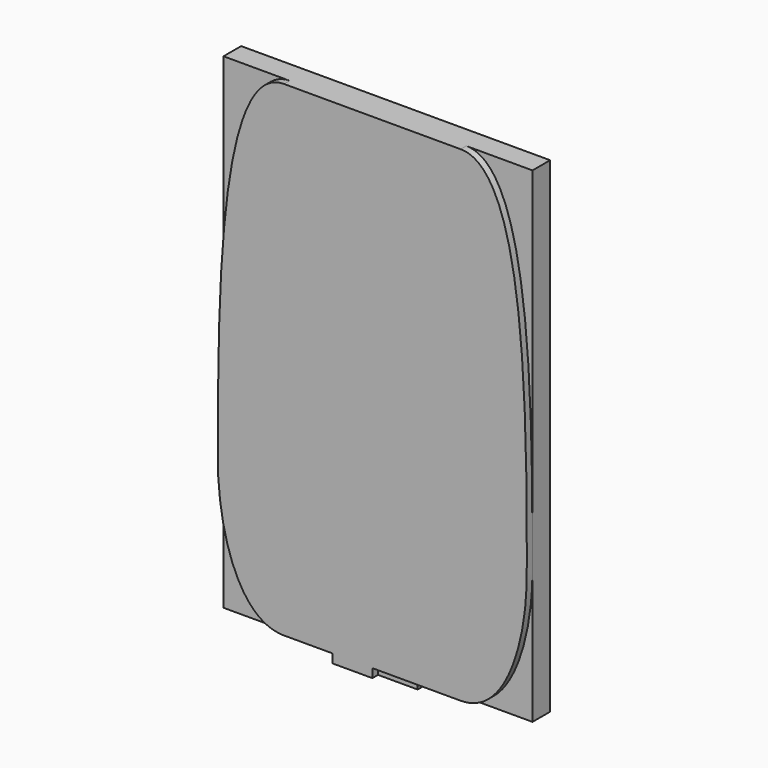
from build123d import *

# Parameters (mm, degrees)
F0_W     = 45
F0_H     = 10
F1_DEPTH = 25
F2_DEPTH = 8


with BuildPart() as f1:
    # F0 (on Front) → F1 (new body)
    with BuildSketch(Plane.XZ):
        with BuildLine():
            add(Edge.make_bspline(
                [(-100, 275), (-175, 275), (-175, 27.932741), (-175, -125)],
                knots=[0, 0, 0, 0, 406.970515, 406.970515, 406.970515, 406.970515], degree=3))
            add(Edge.make_bspline(
                [(-100, -275), (-153.845802, -275), (-175, -188.347161), (-175, -125)],
                knots=[0, 0, 0, 0, 167.705098, 167.705098, 167.705098, 167.705098], degree=3))
            Line((-100, -275), (-45, -275))
            Line((-45, -275), (0, -275))
            Line((0, -275), (45, -275))
            Line((45, -275), (100, -275))
            add(Edge.make_bspline(
                [(100, -275), (153.845802, -275), (175, -188.347161), (175, -125)],
                knots=[0, 0, 0, 0, 167.705098, 167.705098, 167.705098, 167.705098], degree=3))
            add(Edge.make_bspline(
                [(100, 275), (175, 275), (175, 27.932741), (175, -125)],
                knots=[0, 0, 0, 0, 406.970515, 406.970515, 406.970515, 406.970515], degree=3))
            Line((100, 275), (-100, 275))
        make_face()
        with BuildLine():
            add(Edge.make_bspline(
                [(-100, -275), (-153.845802, -275), (-175, -188.347161), (-175, -125)],
                knots=[0, 0, 0, 0, 167.705098, 167.705098, 167.705098, 167.705098], degree=3))
            Line((-175, -125), (-175, -275))
            Line((-175, -275), (-100, -275))
        make_face()
        with BuildLine():
            Line((-100, 275), (-175, 275))
            Line((-175, 275), (-175, -125))
            add(Edge.make_bspline(
                [(-100, 275), (-175, 275), (-175, 27.932741), (-175, -125)],
                knots=[0, 0, 0, 0, 406.970515, 406.970515, 406.970515, 406.970515], degree=3))
        make_face()
        with BuildLine():
            Line((175, -275), (175, -125))
            add(Edge.make_bspline(
                [(100, -275), (153.845802, -275), (175, -188.347161), (175, -125)],
                knots=[0, 0, 0, 0, 167.705098, 167.705098, 167.705098, 167.705098], degree=3))
            Line((100, -275), (175, -275))
        make_face()
        with BuildLine():
            Line((175, 275), (100, 275))
            add(Edge.make_bspline(
                [(100, 275), (175, 275), (175, 27.932741), (175, -125)],
                knots=[0, 0, 0, 0, 406.970515, 406.970515, 406.970515, 406.970515], degree=3))
            Line((175, -125), (175, 275))
        make_face()
        with Locations((-22.5, -280)):
            Rectangle(F0_W, F0_H)
        with Locations((22.5, -280)):
            Rectangle(F0_W, F0_H)
    extrude(amount=-F1_DEPTH)

    # F0 (on Front) → F2 (join)
    with BuildSketch(Plane.XZ):
        with BuildLine():
            add(Edge.make_bspline(
                [(-100, 275), (-175, 275), (-175, 27.932741), (-175, -125)],
                knots=[0, 0, 0, 0, 406.970515, 406.970515, 406.970515, 406.970515], degree=3))
            add(Edge.make_bspline(
                [(-100, -275), (-153.845802, -275), (-175, -188.347161), (-175, -125)],
                knots=[0, 0, 0, 0, 167.705098, 167.705098, 167.705098, 167.705098], degree=3))
            Line((-100, -275), (-45, -275))
            Line((-45, -275), (0, -275))
            Line((0, -275), (45, -275))
            Line((45, -275), (100, -275))
            add(Edge.make_bspline(
                [(100, -275), (153.845802, -275), (175, -188.347161), (175, -125)],
                knots=[0, 0, 0, 0, 167.705098, 167.705098, 167.705098, 167.705098], degree=3))
            add(Edge.make_bspline(
                [(100, 275), (175, 275), (175, 27.932741), (175, -125)],
                knots=[0, 0, 0, 0, 406.970515, 406.970515, 406.970515, 406.970515], degree=3))
            Line((100, 275), (-100, 275))
        make_face()
        with Locations((-22.5, -280)):
            Rectangle(F0_W, F0_H)
    extrude(amount=F2_DEPTH)


solid = f1.part
